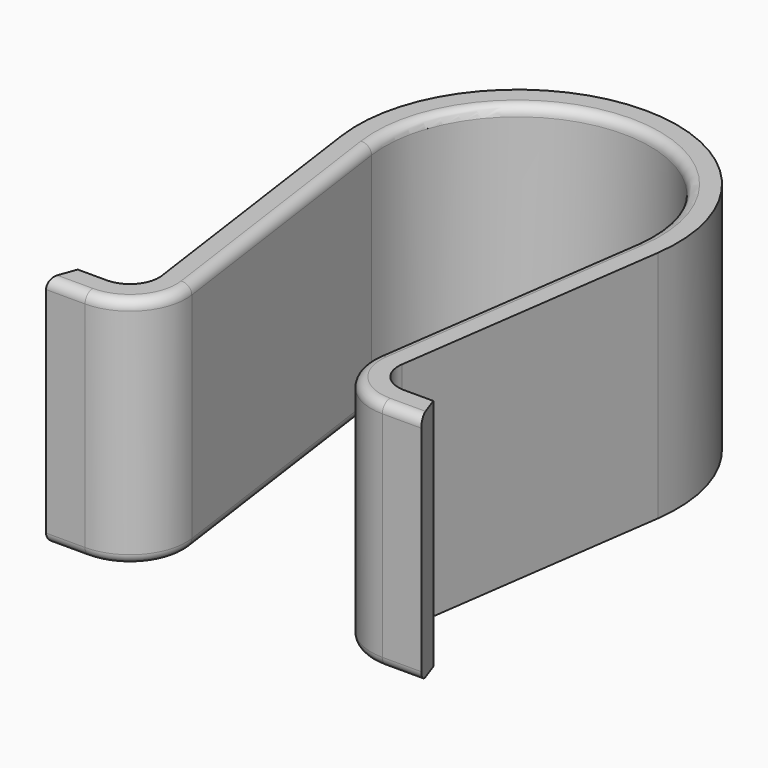
from build123d import *

# Parameters (mm, degrees)
PAD_DEPTH = 120
FILLET_R  = 5


with BuildPart() as part:
    # Sketch → Pad (new body)
    with BuildSketch(Plane.XY):
        with BuildLine():
            ThreePointArc((81.205589, 163.61348), (0, 257.000003), (-81.205589, 163.61348))
            Line((-61.604044, 23.818887), (-81.205589, 163.61348))
            ThreePointArc((-76.312668, 7), (-65.141068, 12.07111), (-61.604044, 23.818887))
            Line((-76.312668, 7), (-91.312668, 7))
            Line((-91.312668, 7), (-96.311409, -6.989133))
            Line((-76.311409, -6.989133), (-96.311409, -6.989133))
            ThreePointArc((-76.311409, -6.989133), (-54.584345, 2.892207), (-47.750327, 25.761451))
            Line((-67.341217, 165.557526), (-47.750327, 25.761451))
            ThreePointArc((67.341217, 165.557526), (0, 243.000004), (-67.341217, 165.557526))
            Line((67.341217, 165.557526), (47.739445, 25.762956))
            ThreePointArc((47.739445, 25.762956), (54.520356, 2.891123), (76.229044, -6.999999))
            Line((76.229044, -6.999999), (96.229044, -6.999999))
            Line((91.229042, 7.000001), (96.229044, -6.999999))
            Line((76.229042, 7.000001), (91.229042, 7.000001))
            ThreePointArc((61.603815, 23.818922), (65.084835, 12.077624), (76.229042, 7.000001))
            Line((81.205589, 163.61348), (61.603815, 23.818922))
        make_face()
    extrude(amount=PAD_DEPTH)

    # Fillet
    fillet_edges = [part.edges().sort_by_distance(p)[0] for p in [
        (54.520356, 2.891123, 0),
        (86.229044, -6.999999, 0),
        (86.229044, -6.999999, 120),
        (54.520356, 2.891123, 120),
        (57.540331, 95.660241, 0),
        (0, 243.000004, 0),
        (0, 243.000004, 120),
        (-57.545772, 95.659489, 0),
        (-54.584345, 2.892207, 0),
        (-86.311409, -6.989133, 0),
        (-86.311409, -6.989133, 120),
        (-54.584345, 2.892207, 120),
        (-57.545772, 95.659489, 120),
        (57.540331, 95.660241, 120),
    ]]
    fillet(fillet_edges, radius=FILLET_R)


solid = part.part
